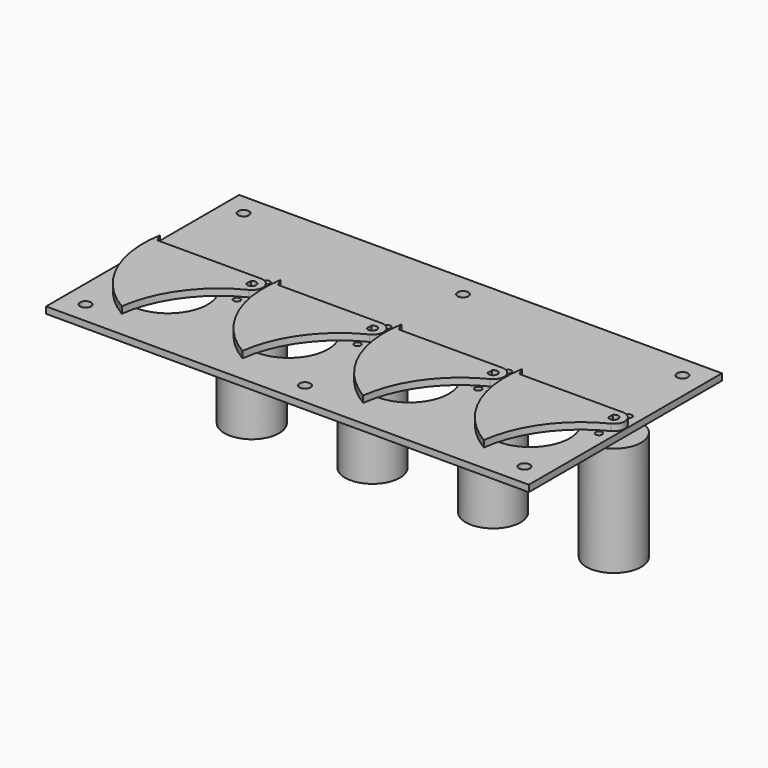
from build123d import *

# Parameters (mm, degrees)
F3_DEPTH = 3
F1_W     = 220
F1_H     = 110
F1_R     = 2.5
F1_R_2   = 18
F1_R_3   = 1.5
F1_R_4   = 3.5
F4_DEPTH = 3
F5_START = -3.1
F2_R     = 12.5
F5_DEPTH = 49.9


with BuildPart() as f3:
    # F0 (on Top) → F3 (new body)
    with BuildSketch(Plane.XY):
        with BuildLine():
            Line((-47, 5), (-48.7475461165, 8.5980665045))
            ThreePointArc((-48.7475461165, 8.5980665045), (-44.9632822197, -20.7015277704), (-25.1629535503, -42.6271717174))
            ThreePointArc((-25.1629535503, -42.6271717174), (-16.2291234704, -20.1403429939), (2.2172994145, -4.4814711096))
            ThreePointArc((2.2172994145, -4.4814711096), (4.8686422927, 1.1385614722), (0, 5))
            Line((0, 5), (-47, 5))
        make_face()
        with BuildLine():
            Line((-1.5, -1.3228756555), (-1.5, 1.3228756555))
            ThreePointArc((-1.5, 1.3228756555), (2, 0), (-1.5, -1.3228756555))
        make_face(mode=Mode.SUBTRACT)
    extrude(amount=F3_DEPTH)


with BuildPart() as f3b:
    # F0 (on Top) → F3, piece 2 (new body)
    with BuildSketch(Plane.XY):
        with BuildLine():
            ThreePointArc((29.8370464497, -42.6271717174), (38.7708765296, -20.1403429939), (57.2172994145, -4.4814711096))
            ThreePointArc((57.2172994145, -4.4814711096), (59.8686422927, 1.1385614722), (55, 5))
            Line((55, 5), (8, 5))
            Line((8, 5), (6.2524538835, 8.5980665045))
            ThreePointArc((6.2524538835, 8.5980665045), (10.0367177803, -20.7015277704), (29.8370464497, -42.6271717174))
        make_face()
        with BuildLine():
            Line((53.5, -1.3228756555), (53.5, 1.3228756555))
            ThreePointArc((53.5, 1.3228756555), (57, 0), (53.5, -1.3228756555))
        make_face(mode=Mode.SUBTRACT)
    extrude(amount=F3_DEPTH)


with BuildPart() as f3c:
    # F0 (on Top) → F3, piece 3 (new body)
    with BuildSketch(Plane.XY):
        with BuildLine():
            ThreePointArc((84.8370464497, -42.6271717174), (93.7708765296, -20.1403429939), (112.2172994145, -4.4814711096))
            ThreePointArc((112.2172994145, -4.4814711096), (114.8686422927, 1.1385614722), (110, 5))
            Line((110, 5), (63, 5))
            Line((63, 5), (61.2524538835, 8.5980665045))
            ThreePointArc((61.2524538835, 8.5980665045), (65.0367177803, -20.7015277704), (84.8370464497, -42.6271717174))
        make_face()
        with BuildLine():
            Line((108.5, -1.3228756555), (108.5, 1.3228756555))
            ThreePointArc((108.5, 1.3228756555), (112, 0), (108.5, -1.3228756555))
        make_face(mode=Mode.SUBTRACT)
    extrude(amount=F3_DEPTH)


with BuildPart() as f3d:
    # F0 (on Top) → F3, piece 4 (new body)
    with BuildSketch(Plane.XY):
        with BuildLine():
            ThreePointArc((139.8370464497, -42.6271717174), (148.7708765296, -20.1403429939), (167.2172994145, -4.4814711096))
            ThreePointArc((167.2172994145, -4.4814711096), (169.8686422927, 1.1385614722), (165, 5))
            Line((165, 5), (118, 5))
            Line((118, 5), (116.2524538835, 8.5980665045))
            ThreePointArc((116.2524538835, 8.5980665045), (120.0367177803, -20.7015277704), (139.8370464497, -42.6271717174))
        make_face()
        with BuildLine():
            Line((163.5, -1.3228756555), (163.5, 1.3228756555))
            ThreePointArc((163.5, 1.3228756555), (167, 0), (163.5, -1.3228756555))
        make_face(mode=Mode.SUBTRACT)
    extrude(amount=F3_DEPTH)


with BuildPart() as f4:
    # F1 (on Top) → F4 (new body)
    with BuildSketch(Plane.XY):
        with Locations((60.25, 0)):
            Rectangle(F1_W, F1_H)
        with Locations((-39.75, -45)):
            Circle(F1_R, mode=Mode.SUBTRACT)
        with Locations((-23.75, -18)):
            Circle(F1_R_2, mode=Mode.SUBTRACT)
        with Locations((0, -8.5)):
            Circle(F1_R_3, mode=Mode.SUBTRACT)
        with Locations((31.25, -18)):
            Circle(F1_R_2, mode=Mode.SUBTRACT)
        with Locations((55, -8.5)):
            Circle(F1_R_3, mode=Mode.SUBTRACT)
        with Locations((60.25, -45)):
            Circle(F1_R, mode=Mode.SUBTRACT)
        with Locations((160.25, -45)):
            Circle(F1_R, mode=Mode.SUBTRACT)
        with Locations((86.25, -18)):
            Circle(F1_R_2, mode=Mode.SUBTRACT)
        with Locations((110, -8.5)):
            Circle(F1_R_3, mode=Mode.SUBTRACT)
        with Locations((141.25, -18)):
            Circle(F1_R_2, mode=Mode.SUBTRACT)
        with Locations((165, -8.5)):
            Circle(F1_R_3, mode=Mode.SUBTRACT)
        Circle(F1_R_4, mode=Mode.SUBTRACT)
        with Locations((0, 8.5)):
            Circle(F1_R_3, mode=Mode.SUBTRACT)
        with Locations((55, 0)):
            Circle(F1_R_4, mode=Mode.SUBTRACT)
        with Locations((55, 8.5)):
            Circle(F1_R_3, mode=Mode.SUBTRACT)
        with Locations((-39.75, 45)):
            Circle(F1_R, mode=Mode.SUBTRACT)
        with Locations((110, 0)):
            Circle(F1_R_4, mode=Mode.SUBTRACT)
        with Locations((110, 8.5)):
            Circle(F1_R_3, mode=Mode.SUBTRACT)
        with Locations((165, 0)):
            Circle(F1_R_4, mode=Mode.SUBTRACT)
        with Locations((165, 8.5)):
            Circle(F1_R_3, mode=Mode.SUBTRACT)
        with Locations((60.25, 45)):
            Circle(F1_R, mode=Mode.SUBTRACT)
        with Locations((160.25, 45)):
            Circle(F1_R, mode=Mode.SUBTRACT)
    extrude(amount=-F4_DEPTH)


with BuildPart() as f5:
    # F2 (on Top) → F5 (new body)
    with BuildSketch(Plane.XY.offset(F5_START)):
        Circle(F2_R)
    extrude(amount=-F5_DEPTH)


with BuildPart() as f5b:
    # F2 (on Top) → F5, piece 2 (new body)
    with BuildSketch(Plane.XY.offset(F5_START)):
        with Locations((55, 0)):
            Circle(F2_R)
    extrude(amount=-F5_DEPTH)


with BuildPart() as f5c:
    # F2 (on Top) → F5, piece 3 (new body)
    with BuildSketch(Plane.XY.offset(F5_START)):
        with Locations((110, 0)):
            Circle(F2_R)
    extrude(amount=-F5_DEPTH)


with BuildPart() as f5d:
    # F2 (on Top) → F5, piece 4 (new body)
    with BuildSketch(Plane.XY.offset(F5_START)):
        with Locations((165, 0)):
            Circle(F2_R)
    extrude(amount=-F5_DEPTH)


solid = Compound([f3.part, f3b.part, f3c.part, f3d.part, f4.part, f5.part, f5b.part, f5c.part, f5d.part])
